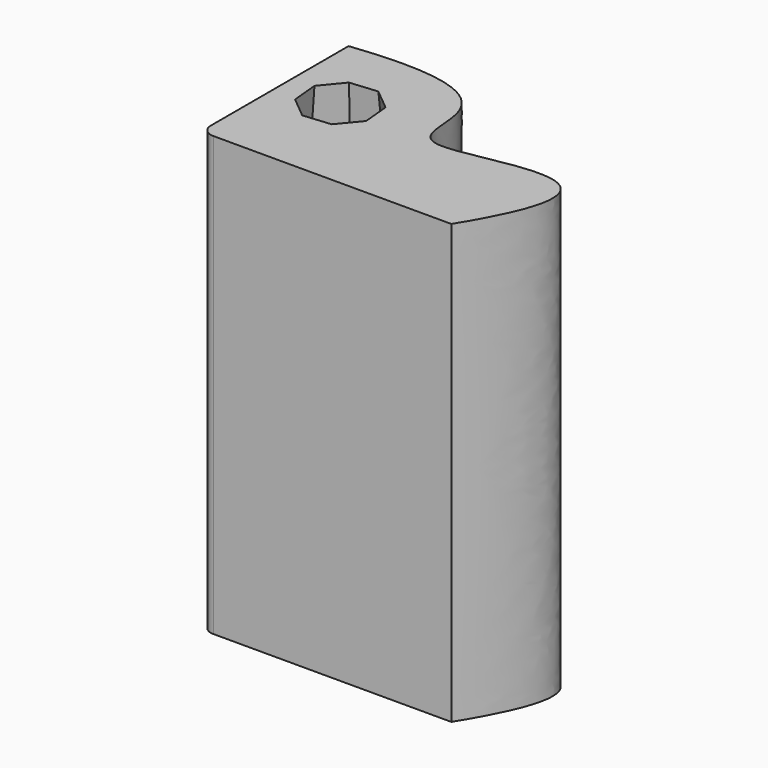
from build123d import *

# Parameters (mm, degrees)
F1_DEPTH = 177.8
F3_DEPTH = 254
F3_TAPER = -5


with BuildPart() as f1:
    # F0 (on Top) → F1 (new body)
    with BuildSketch(Plane.XY):
        with BuildLine():
            Line((-59.5206688476, -39.9203336644), (36.9993311524, -39.9203336644))
            add(Edge.make_bspline(
                [(-64.6006688476, 35.0096663356), (16.8410041872, 44.532174615), (-52.6450183467, -34.6954818824), (78.1455891266, 26.7353251057), (36.9993311524, -39.9203336644)],
                knots=[0, 0, 0, 0, 0.5374384102, 1, 1, 1, 1], degree=3))
            Line((-64.6006688476, 35.0096663356), (-64.6006688476, -34.8403336644))
            ThreePointArc((-64.6006688476, -34.8403336644), (-63.112771296, -38.4324361128), (-59.5206688476, -39.9203336644))
        make_face()
    extrude(amount=F1_DEPTH)

    # F2 (on face) → F3 (cut)
    with BuildSketch(Plane.XY.offset(177.8)):
        Polygon((-35.2672802635, -10.2227516693), (-28.1480533652, -1.6305818933), (-29.1895812623, 9.4790532369), (-37.7817510382, 16.5982801352), (-48.8913861684, 15.5567522381), (-56.0106130667, 6.9645824622), (-54.9690851696, -4.1450526681), (-46.3769153937, -11.2642795663), align=None)
    extrude(amount=-F3_DEPTH, taper=F3_TAPER, mode=Mode.SUBTRACT)


solid = f1.part
